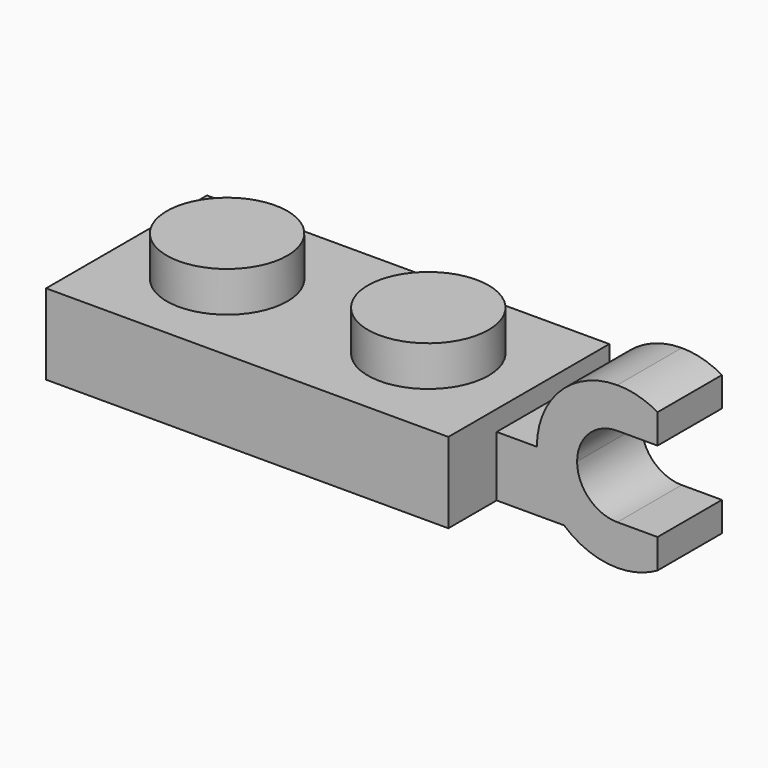
from build123d import *

# Parameters (mm, degrees)
F0_W      = 15.875
F0_H      = 7.9375
F0_R      = 2.38125
F1_DEPTH  = 3.175
F2_DEPTH  = 4.7625
F3_T      = -1.5875
F4_R      = 1.5875
F4_R_2    = 0.79375
F5_DEPTH  = 1.5875
F6_W      = 1.5875
F6_H      = 6.35
F7_DEPTH  = 4.7625
F8_W      = 1.5875
F8_H      = 0.79375
F9_DEPTH  = 3.175
F10_DEPTH = 25.4


with BuildPart() as f1:
    # F0 (on Top) → F1 (new body)
    with BuildSketch(Plane.XY):
        Rectangle(F0_W, F0_H)
        with Locations((-3.96875, 0)):
            Circle(F0_R, mode=Mode.SUBTRACT)
        with Locations((3.96875, 0)):
            Circle(F0_R, mode=Mode.SUBTRACT)
    extrude(amount=F1_DEPTH)

    # F0 (on Top) → F2 (join)
    with BuildSketch(Plane.XY):
        with Locations((3.96875, 0)):
            Circle(F0_R)
        with Locations((-3.96875, 0)):
            Circle(F0_R)
    extrude(amount=F2_DEPTH)

    # F3
    f3_openings = [f1.faces().sort_by_distance(p)[0] for p in [
        (0, 0, 0),
    ]]
    offset(amount=F3_T, openings=f3_openings, kind=Kind.INTERSECTION)

    # F4 (on face) → F5 (join)
    with BuildSketch(Plane(origin=(0, 0, 1.5875), x_dir=(1, 0, 0), z_dir=(0, 0, -1))):
        Circle(F4_R)
        Circle(F4_R_2, mode=Mode.SUBTRACT)
    extrude(amount=F5_DEPTH)

    # F6 (on face) → F7 (join)
    with BuildSketch(Plane.YZ.offset(7.9375)):
        with Locations((0.79375, 3.175)):
            Rectangle(F6_W, F6_H)
        with Locations((-0.79375, 3.175)):
            Rectangle(F6_W, F6_H)
    extrude(amount=F7_DEPTH)

    # F8 (on face) → F9 (join)
    with BuildSketch(Plane.XZ.offset(1.5875)):
        with BuildLine():
            Line((12.7, 0), (10.5999348968, 0))
            ThreePointArc((10.5999348968, 0), (11.5774679849, -0.5886905508), (12.7, -0.79375))
            Line((12.7, -0.79375), (12.7, 0))
        make_face()
        with BuildLine():
            Line((12.7, 0), (12.7, -0.79375))
            ThreePointArc((12.7, -0.79375), (13.5217504682, -0.6855644985), (14.2875, -0.368380657))
            Line((14.2875, -0.368380657), (14.2875, 0))
            Line((14.2875, 0), (12.7, 0))
        make_face()
        with BuildLine():
            ThreePointArc((14.2875, 5.130880657), (13.5217504682, 5.4480644985), (12.7, 5.55625))
            Line((12.7, 5.55625), (12.7, 3.96875))
            Line((12.7, 3.96875), (14.2875, 3.96875))
            Line((14.2875, 3.96875), (14.2875, 5.130880657))
        make_face()
        with Locations((13.49375, 0.396875)):
            Rectangle(F8_W, F8_H)
    extrude(amount=-F9_DEPTH)

    # F8 (on face) → F10 (cut)
    with BuildSketch(Plane.XZ.offset(1.5875)):
        with BuildLine():
            Line((7.9375, 6.35), (7.9375, 3.175))
            Line((7.9375, 3.175), (7.9375, 2.38125))
            Line((7.9375, 2.38125), (9.525, 2.38125))
            ThreePointArc((9.525, 2.38125), (10.4549359697, 4.6263140303), (12.7, 5.55625))
            Line((12.7, 5.55625), (12.7, 6.35))
            Line((12.7, 6.35), (7.9375, 6.35))
        make_face()
        with BuildLine():
            Line((12.7, 2.38125), (11.1125, 2.38125))
            ThreePointArc((11.1125, 2.38125), (11.5774679849, 1.2587179849), (12.7, 0.79375))
            Line((12.7, 0.79375), (12.7, 2.38125))
        make_face()
        with BuildLine():
            ThreePointArc((12.7, 3.96875), (11.5774679849, 3.5037820151), (11.1125, 2.38125))
            Line((11.1125, 2.38125), (12.7, 2.38125))
            Line((12.7, 2.38125), (12.7, 3.96875))
        make_face()
    extrude(amount=-F10_DEPTH, mode=Mode.SUBTRACT)


solid = f1.part
